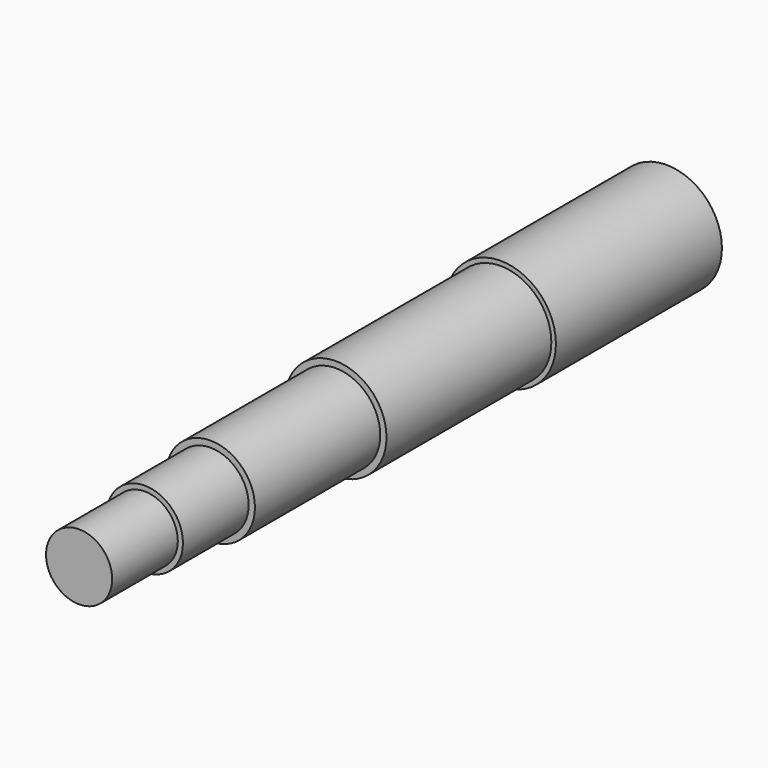
from build123d import *

# Parameters (mm, degrees)
F0_R     = 12.319
F1_DEPTH = 46.219999
F2_R     = 11.303
F3_DEPTH = 45.90001
F4_R     = 9.906
F5_DEPTH = 34.879999
F6_R     = 8.509
F7_DEPTH = 18.299999
F8_R     = 7.366
F9_DEPTH = 18.28


with BuildPart() as f1:
    # F0 (on Front) → F1 (new body)
    with BuildSketch(Plane.XZ):
        with Locations((-7.64, 0)):
            Circle(F0_R)
    extrude(amount=F1_DEPTH)

    # F2 (on face) → F3 (join)
    with BuildSketch(Plane.XZ.offset(46.219999)):
        with Locations((-7.64, 0)):
            Circle(F2_R)
    extrude(amount=F3_DEPTH)

    # F4 (on face) → F5 (join)
    with BuildSketch(Plane.XZ.offset(92.120009)):
        with Locations((-7.64, 0)):
            Circle(F4_R)
    extrude(amount=F5_DEPTH)

    # F6 (on face) → F7 (join)
    with BuildSketch(Plane.XZ.offset(127.000008)):
        with Locations((-7.64, 0)):
            Circle(F6_R)
    extrude(amount=F7_DEPTH)

    # F8 (on face) → F9 (join)
    with BuildSketch(Plane.XZ.offset(145.300007)):
        with Locations((-7.64, 0)):
            Circle(F8_R)
    extrude(amount=F9_DEPTH)


solid = f1.part
